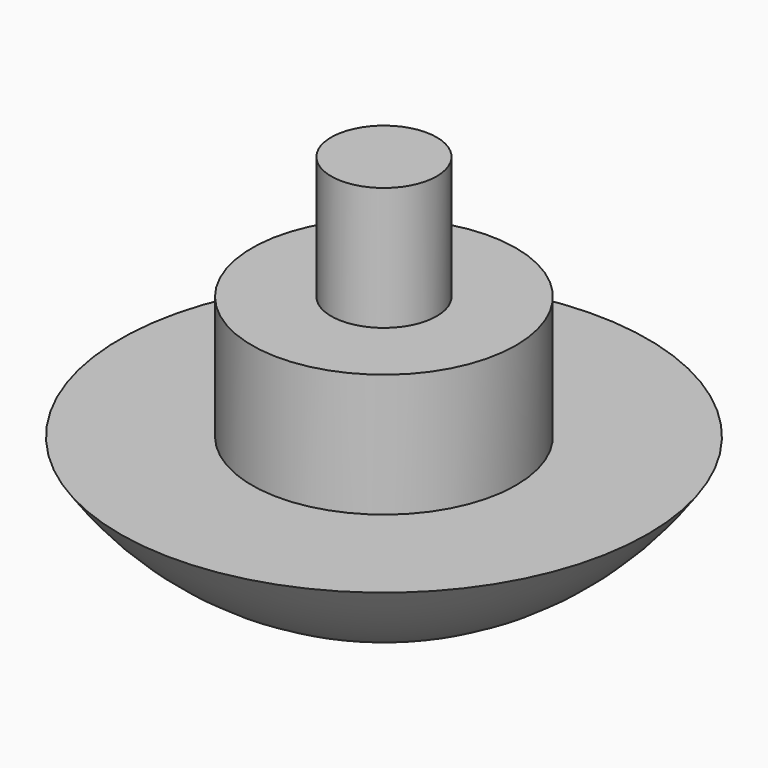
from build123d import *


with BuildPart() as f1:
    # F0 (on Front) → F1 (revolve)
    with BuildSketch(Plane.XZ):
        with BuildLine():
            Line((0, 11), (0, 0))
            ThreePointArc((0, 0), (4.25, 1.0625), (7.5, 4))
            Line((7.5, 4), (3.75, 4))
            Line((3.75, 4), (3.75, 7.5))
            Line((3.75, 7.5), (1.5, 7.5))
            Line((1.5, 7.5), (1.5, 11))
            Line((1.5, 11), (0, 11))
        make_face()
    revolve(axis=Axis((0, 0, 5.5), (0, 0, 1)))


solid = f1.part
